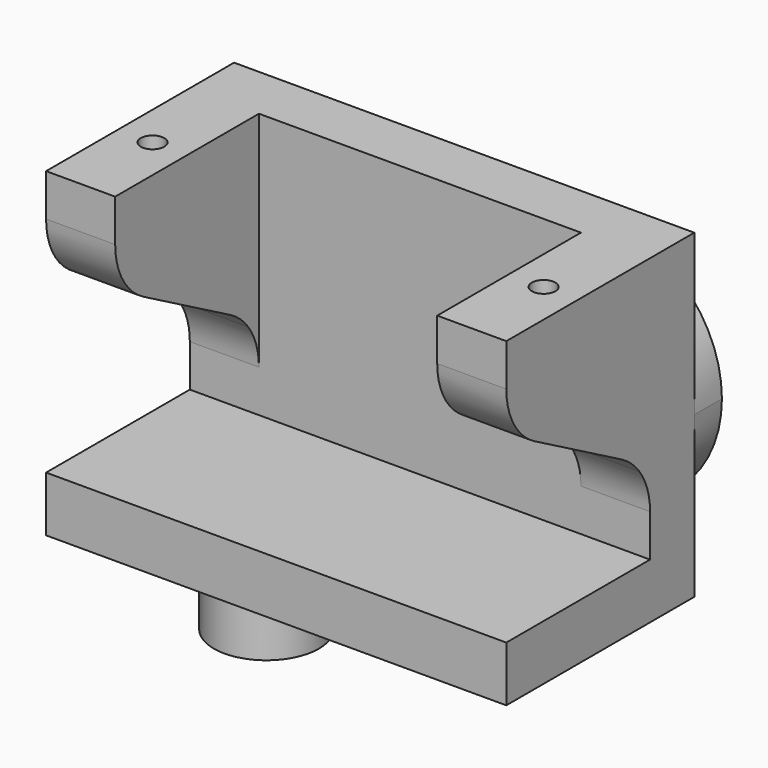
from build123d import *

# Parameters (mm, degrees)
F1_W      = 5
F1_H      = 7.2
F1_H_2    = 6
F1_H_3    = 4
F1_W_2    = 23.3
F3_DEPTH  = 8.5
F0_W      = 23.3
F0_H      = 4
F4_DEPTH  = 23.2
F5_DEPTH  = 18.1
F6_START  = 4.3
F0_R      = 0.85
F6_DEPTH  = 20.7
F0_R_2    = 3.8
F7_DEPTH  = 5
F9_DEPTH  = 2.5
F10_DEPTH = 27.6


with BuildPart() as f3:
    # F1 (on Front) → F3 (new body, symmetric)
    with BuildSketch(Plane.XZ):
        with Locations((-14.15, 13.6)):
            Rectangle(F1_W, F1_H)
        with Locations((-14.15, 20.2)):
            Rectangle(F1_W, F1_H_2)
        with Locations((-14.15, 7)):
            Rectangle(F1_W, F1_H_2)
        with Locations((-14.15, 2)):
            Rectangle(F1_W, F1_H_3)
        with Locations((0, 2)):
            Rectangle(F1_W_2, F1_H_3)
        with Locations((14.15, 2)):
            Rectangle(F1_W, F1_H_3)
        with Locations((14.15, 7)):
            Rectangle(F1_W, F1_H_2)
        with Locations((14.15, 13.6)):
            Rectangle(F1_W, F1_H)
        with Locations((14.15, 20.2)):
            Rectangle(F1_W, F1_H_2)
    extrude(amount=F3_DEPTH, both=True)

    # F0 (on Top) → F4 (join)
    with BuildSketch(Plane.XY):
        with Locations((0, 6.5)):
            Rectangle(F0_W, F0_H)
    extrude(amount=F4_DEPTH)

    # F2 (on Right) → F5 (cut, symmetric)
    with BuildSketch(Plane.YZ):
        with BuildLine():
            Line((-8.5, 17.2), (-8.5, 10))
            Line((-8.5, 10), (3.5396314061, 10))
            ThreePointArc((3.5396314061, 10), (2.8089650426, 10.8020152096), (1.9224991399, 11.4275389379))
            Line((1.9224991399, 11.4275389379), (-5.9224991399, 15.7724610621))
            ThreePointArc((-5.9224991399, 15.7724610621), (-6.8089650426, 16.3979847904), (-7.5396314061, 17.2))
            Line((-7.5396314061, 17.2), (-8.5, 17.2))
        make_face()
        with BuildLine():
            Line((-8.5, 20.1464178425), (-8.5, 17.2))
            Line((-8.5, 17.2), (-7.5396314061, 17.2))
            ThreePointArc((-7.5396314061, 17.2), (-8.2538488107, 18.5969271247), (-8.5, 20.1464178425))
        make_face()
        with BuildLine():
            Line((-8.5, 10), (-8.5, 4))
            Line((-8.5, 4), (4.5, 4))
            Line((4.5, 4), (4.5, 7.0535821575))
            ThreePointArc((4.5, 7.0535821575), (4.2538488107, 8.6030728753), (3.5396314061, 10))
            Line((3.5396314061, 10), (-8.5, 10))
        make_face()
    extrude(amount=F5_DEPTH, both=True, mode=Mode.SUBTRACT)

    # F0 (on Top) → F6 (cut)
    with BuildSketch(Plane.XY.offset(F6_START)):
        with Locations((14.15, -2)):
            Circle(F0_R)
        with Locations((-14.15, -2)):
            Circle(F0_R)
    extrude(amount=F6_DEPTH, mode=Mode.SUBTRACT)

    # F0 (on Top) → F7 (join)
    with BuildSketch(Plane.XY):
        with Locations((-5.75, -2.2)):
            Circle(F0_R_2)
    extrude(amount=-F7_DEPTH)

    # F8 (on face) → F9 (join)
    with BuildSketch(Plane(origin=(0, 8.5, 0), x_dir=(-1, 0, 0), z_dir=(0, 1, 0))):
        with BuildLine():
            ThreePointArc((-7.95, 20.3), (-14.1018289963, 17.7518289963), (-16.65, 11.6))
            ThreePointArc((-16.65, 11.6), (-14.1018289963, 5.4481710037), (-7.95, 2.9))
            ThreePointArc((-7.95, 2.9), (-3.2863104735, 4.2556143892), (-0.075992126, 7.9))
            Line((-0.075992126, 7.9), (-7.95, 7.9))
            ThreePointArc((-7.95, 7.9), (-11.65, 11.6), (-7.95, 15.3))
            Line((-7.95, 15.3), (-0.075992126, 15.3))
            ThreePointArc((-0.075992126, 15.3), (-3.2863104735, 18.9443856108), (-7.95, 20.3))
        make_face()
        with BuildLine():
            Line((-7.95, 2.9), (16.65, 2.9))
            Line((16.65, 2.9), (16.65, 20.3))
            Line((16.65, 20.3), (-7.95, 20.3))
            ThreePointArc((-7.95, 20.3), (-3.2863104735, 18.9443856108), (-0.075992126, 15.3))
            Line((-0.075992126, 15.3), (8.35, 15.3))
            Line((8.35, 15.3), (8.35, 7.9))
            Line((8.35, 7.9), (-0.075992126, 7.9))
            ThreePointArc((-0.075992126, 7.9), (-3.2863104735, 4.2556143892), (-7.95, 2.9))
        make_face()
    extrude(amount=F9_DEPTH)

    # F8 (on face) → F10 (cut)
    with BuildSketch(Plane(origin=(0, 8.5, 0), x_dir=(-1, 0, 0), z_dir=(0, 1, 0))):
        with BuildLine():
            ThreePointArc((-5.85, 11.6), (-6.4650757595, 13.0849242405), (-7.95, 13.7))
            Line((-7.95, 13.7), (-7.95, 9.5))
            ThreePointArc((-7.95, 9.5), (-6.4650757595, 10.1150757595), (-5.85, 11.6))
        make_face()
        with BuildLine():
            Line((-7.95, 9.5), (-7.95, 13.7))
            ThreePointArc((-7.95, 13.7), (-10.05, 11.6), (-7.95, 9.5))
        make_face()
    extrude(amount=-F10_DEPTH, mode=Mode.SUBTRACT)


solid = f3.part
